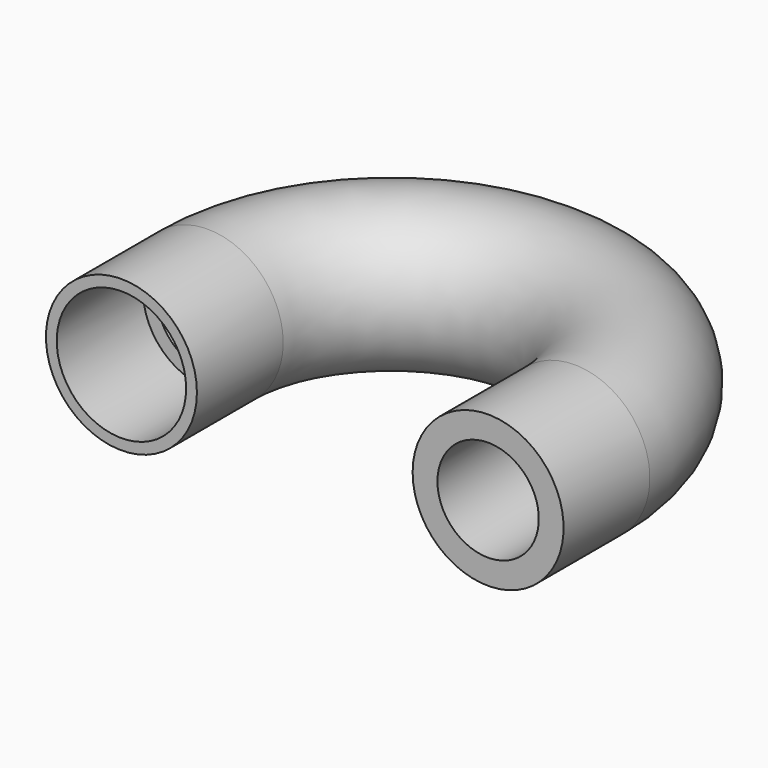
from build123d import *

# Parameters (mm, degrees)
F1_R     = 8.89
F1_R_2   = 5.969
F3_R     = 7.62
F3_R_2   = 5.969
F4_DEPTH = 12.7


with BuildPart() as f2:
    # F2: sweep along a path in F0
    with BuildLine(Plane.XY) as f2_path:
        Line((0, 0), (0, 12.7))
        ThreePointArc((0, 12.7), (21.59, 34.29), (43.18, 12.7))
        Line((43.18, 12.7), (43.18, 0))
    # F1 (on Front) → F2 (sweep)
    with BuildSketch(Plane.XZ):
        Circle(F1_R)
        Circle(F1_R_2, mode=Mode.SUBTRACT)
    sweep(path=f2_path.line)

    # F3 (on face) → F4 (cut)
    with BuildSketch(Plane.XZ):
        Circle(F3_R)
        Circle(F3_R_2, mode=Mode.SUBTRACT)
    extrude(amount=-F4_DEPTH, mode=Mode.SUBTRACT)


solid = f2.part
